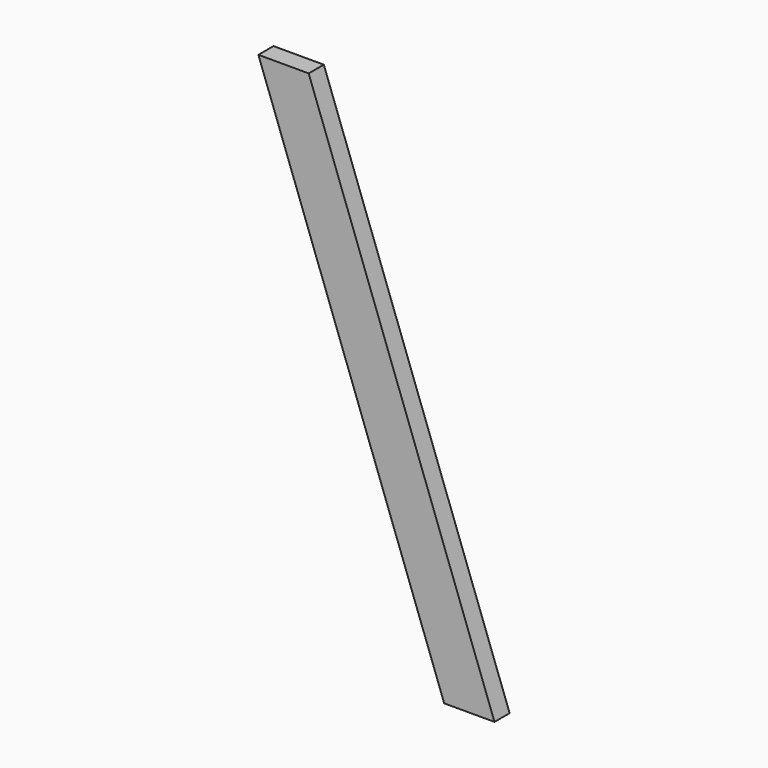
from build123d import *

# Parameters (mm, degrees)
BOX016_W               = 60
BOX016_H               = 24
BOX016_DEPTH           = 827
BOX016_PITCH_ANGLE     = 19.999975
BOX016_PLACEMENT_ANGLE = 180
BOX015_W               = 300
BOX015_H               = 24
BOX015_DEPTH           = 648


with BuildPart() as cube007:
    # Box016 → Box016 (new body)
    with BuildSketch(Plane.XY):
        with Locations((30, 12)):
            Rectangle(BOX016_W, BOX016_H)
    extrude(amount=BOX016_DEPTH)


with BuildPart() as cube007_1:
    # Box016 pitch: moved
    add(cube007.part.rotate(Axis((0, 0, 0), (0, 1, 0)), BOX016_PITCH_ANGLE))


with BuildPart() as cube007_2:
    # Box016 placement: moved
    add(cube007_1.part.moved(Location((300, 24, 24))).rotate(Axis((300, 24, 24), (0, 0, 1)), BOX016_PLACEMENT_ANGLE))


with BuildPart() as stand:
    # Box015 → Box015 (new body)
    with BuildSketch(Plane.XY.offset(24)):
        with Locations((150, 12)):
            Rectangle(BOX015_W, BOX015_H)
    extrude(amount=BOX015_DEPTH)

    # Common: intersect Cube007
    add(cube007_2.part, mode=Mode.INTERSECT)


solid = stand.part
